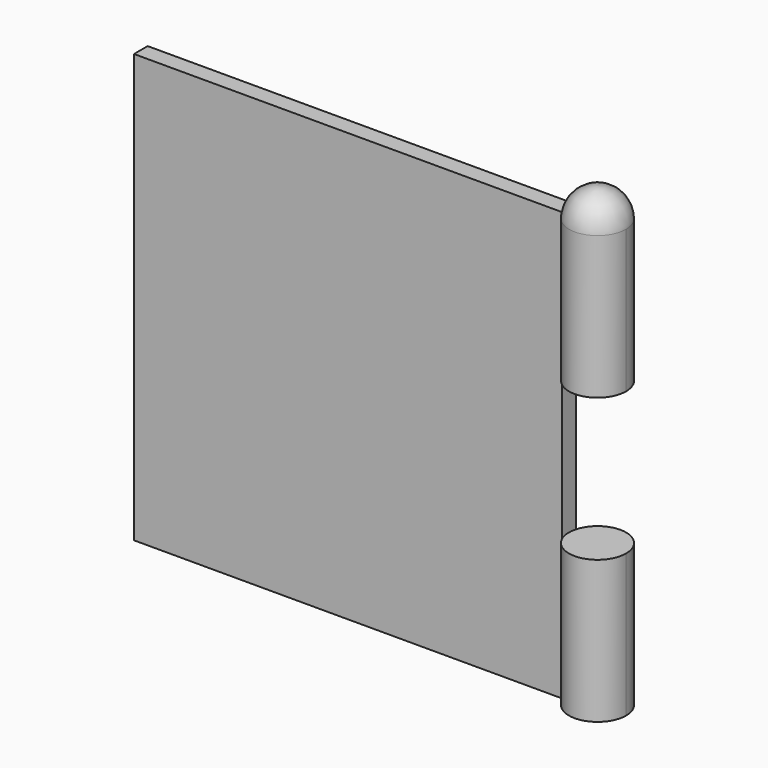
from build123d import *

# Parameters (mm, degrees)
F0_W     = 75
F0_H     = 75
F1_DEPTH = 3
F3_DEPTH = 25
F5_DEPTH = 25


with BuildPart() as f1:
    # F0 (on Front) → F1 (new body)
    with BuildSketch(Plane.XZ):
        with Locations((37.5, 37.5)):
            Rectangle(F0_W, F0_H)
    extrude(amount=F1_DEPTH)

    # F2 (on Top) → F3 (join)
    with BuildSketch(Plane.XY):
        with BuildLine():
            ThreePointArc((75, -1.5), (80, -6.5), (85, -1.5))
            ThreePointArc((85, -1.5), (80, 3.5), (75, -1.5))
        make_face()
    extrude(amount=F3_DEPTH)



with BuildPart() as f5:
    # F4 (on face) → F5 (new body)
    with BuildSketch(Plane.XY.offset(75)):
        with BuildLine():
            ThreePointArc((75, -1.5), (80, -6.5), (85, -1.5))
            ThreePointArc((85, -1.5), (80, 3.5), (75, -1.5))
        make_face()
    extrude(amount=-F5_DEPTH)


with BuildPart() as f1_1:
    add(f1.part)

    add(f5.part)  # F8 merges F5
    # F7 (on offset) → F8 (revolve)
    with BuildSketch(Plane.YZ.offset(80)):
        with BuildLine():
            ThreePointArc((-1.5, 80), (-5.035534, 78.535534), (-6.5, 75))
            Line((-6.5, 75), (-1.5, 75))
            Line((-1.5, 75), (-1.5, 80))
        make_face()
    revolve(axis=Axis((80, -1.5, 77.5), (0, 0, -1)))


solid = f1_1.part
